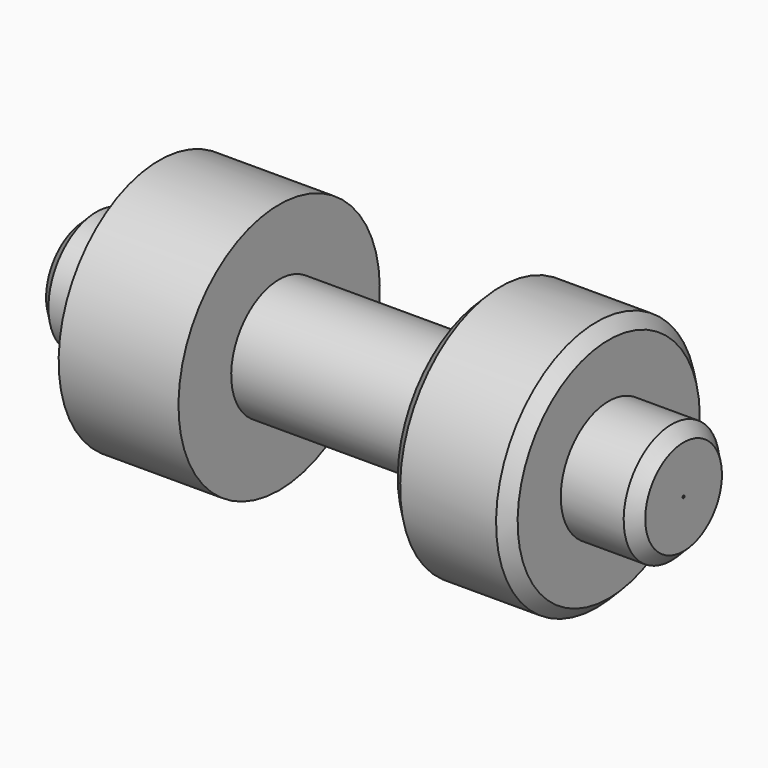
from build123d import *

# Parameters (mm, degrees)
F0_W    = 35
F0_H    = 10
F2_SIZE = 2


with BuildPart() as f1:
    # F0 (on Front) → F1 (revolve)
    with BuildSketch(Plane.XZ):
        Polygon((32.5, 0), (12.5, 0), (12.5, -10), (12.5, -21), (32.5, -21), (32.5, -10), align=None)
        Polygon((99.8, 0), (87.5, 0), (87.5, -10), (100, -10), (100, -0.2), align=None)
        Polygon((87.5, 0), (67.5, 0), (67.5, -10), (67.5, -21), (87.5, -21), (87.5, -10), align=None)
        with Locations((50, -5)):
            Rectangle(F0_W, F0_H)
        Polygon((12.5, 0), (0.2, 0), (0, -0.2), (0, -10), (12.5, -10), align=None)
    revolve(axis=Axis((50, 0, 0), (1, 0, 0)))

    # F2
    f2_edges = [f1.edges().sort_by_distance(p)[0] for p in [
        (67.5, 0, 21),
        (87.5, 0, 21),
        (100, 0, 10),
        (0, 0, 10),
    ]]
    chamfer(f2_edges, length=F2_SIZE)


solid = f1.part
